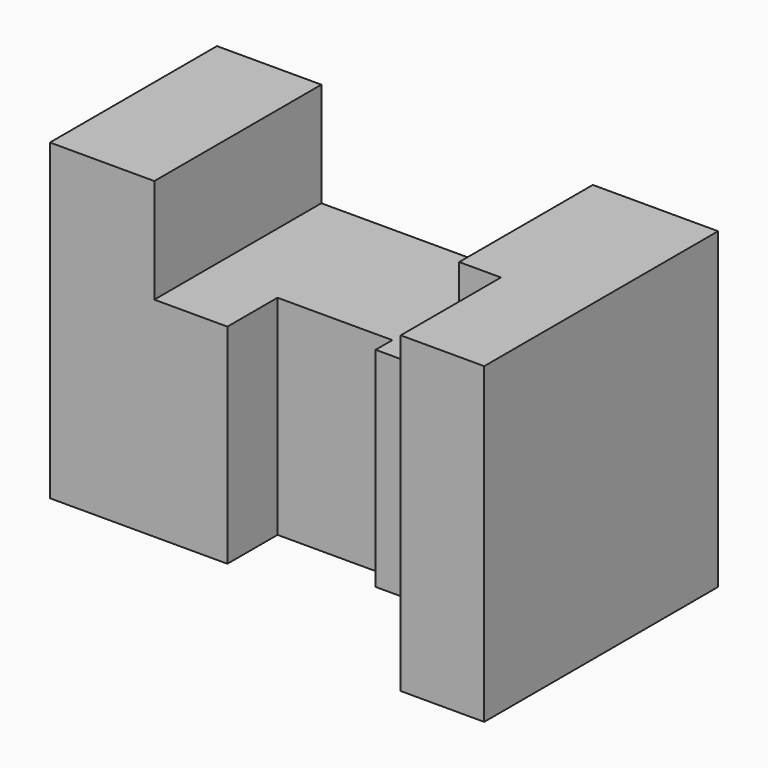
from build123d import *

# Parameters (mm, degrees)
F0_W     = 75
F0_H     = 75
F1_DEPTH = 35
F3_DEPTH = 75.001
F4_W     = 65
F4_H     = 25
F5_DEPTH = 50.001
F6_W     = 50
F6_H     = 75
F7_DEPTH = 25
F8_W     = 70
F8_H     = 75
F9_DEPTH = 20


with BuildPart() as f1:
    # F0 (on Front) → F1 (new body, symmetric)
    with BuildSketch(Plane.XZ):
        with Locations((37.5, 37.5)):
            Rectangle(F0_W, F0_H)
    extrude(amount=F1_DEPTH, both=True)

    # F2 (on face) → F3 (cut, through all)
    with BuildSketch(Plane.XY.offset(75)):
        Polygon((17.5, -15), (0, -15), (0, -35), (75, -35), (75, -5), (45, -5), (45, 0), (17.5, 0), align=None)
    extrude(amount=-F3_DEPTH, mode=Mode.SUBTRACT)

    # F4 (on face) → F5 (cut, through all)
    with BuildSketch(Plane(origin=(0, 35, 0), x_dir=(-1, 0, 0), z_dir=(0, 1, 0))):
        with Locations((-32.5, 62.5)):
            Rectangle(F4_W, F4_H)
    extrude(amount=-F5_DEPTH, mode=Mode.SUBTRACT)

    # F6 (on face) → F7 (join)
    with BuildSketch(Plane(origin=(0, 0, 0), x_dir=(0, -1, 0), z_dir=(-1, 0, 0))):
        with Locations((-10, 37.5)):
            Rectangle(F6_W, F6_H)
    extrude(amount=F7_DEPTH)

    # F8 (on face) → F9 (join)
    with BuildSketch(Plane.YZ.offset(75)):
        with Locations((0, 37.5)):
            Rectangle(F8_W, F8_H)
    extrude(amount=F9_DEPTH)


solid = f1.part
